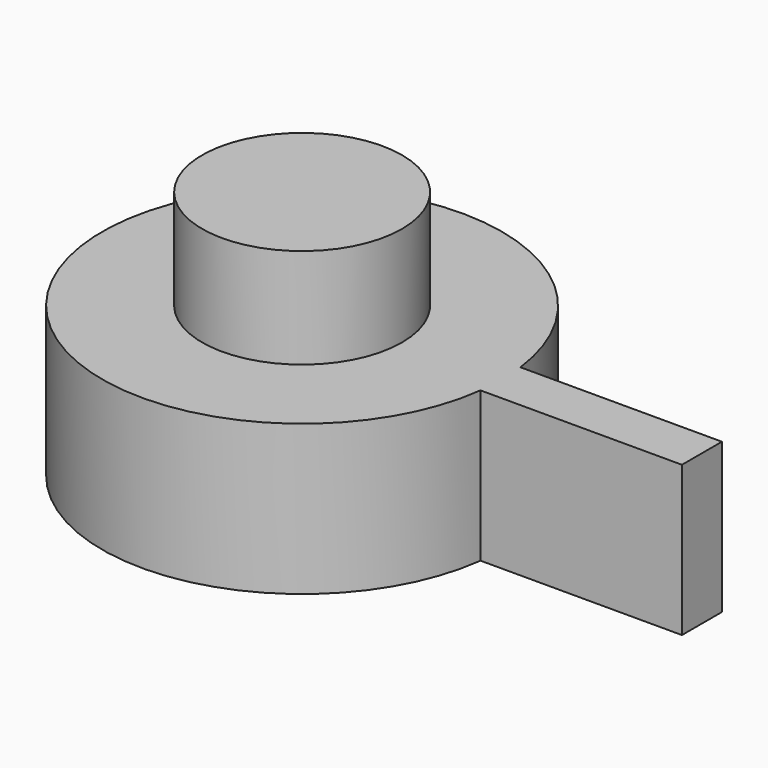
from build123d import *

# Parameters (mm, degrees)
F0_R     = 20
F1_DEPTH = 15
F2_W     = 40
F2_H     = 2.5
F3_DEPTH = 15
F4_R     = 10
F5_DEPTH = 25


with BuildPart() as f1:
    # F0 (on Top) → F1 (new body)
    with BuildSketch(Plane.XY):
        Circle(F0_R)
    extrude(amount=F1_DEPTH)

    # F2 (on Top) → F3 (join)
    with BuildSketch(Plane.XY):
        with Locations((20, 1.25)):
            Rectangle(F2_W, F2_H)
        with Locations((20, -1.25)):
            Rectangle(F2_W, F2_H)
    extrude(amount=F3_DEPTH)

    # F4 (on Top) → F5 (join)
    with BuildSketch(Plane.XY):
        Circle(F4_R)
    extrude(amount=F5_DEPTH)


solid = f1.part
